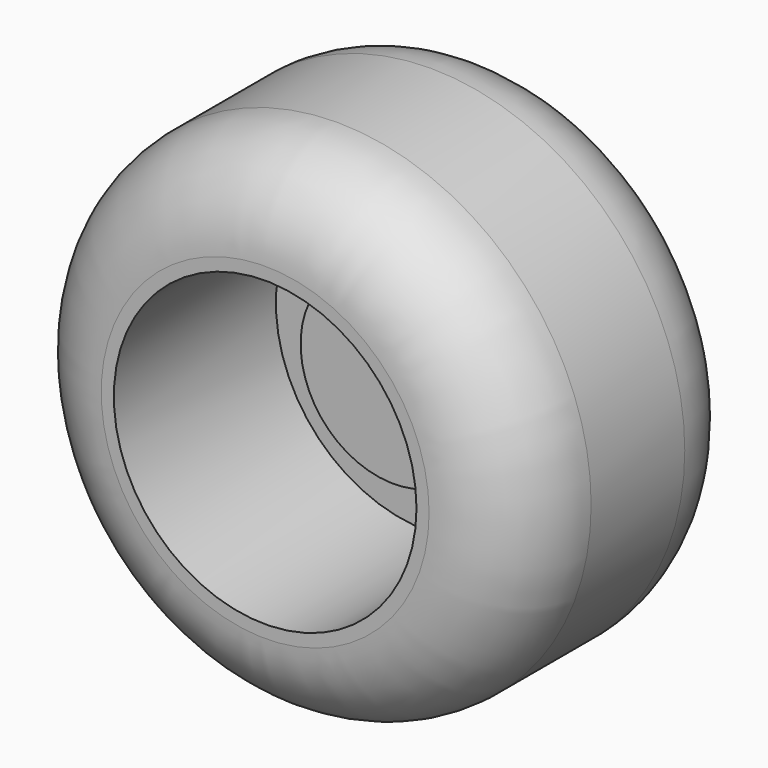
from build123d import *

# Parameters (mm, degrees)
F0_R     = 14.331374
F1_DEPTH = 16.764
F2_R     = 5.08
F3_R     = 5.08
F4_R     = 8.539137
F5_DEPTH = 11.43
F6_R     = 5.252723
F7_DEPTH = 2.3622


with BuildPart() as f1:
    # F0 (on Front) → F1 (new body)
    with BuildSketch(Plane.XZ):
        Circle(F0_R)
    extrude(amount=F1_DEPTH)

    # F2
    f2_edges = [f1.edges().sort_by_distance(p)[0] for p in [
        (-14.331374, -16.764, 0),
    ]]
    fillet(f2_edges, radius=F2_R)

    # F3
    f3_edges = [f1.edges().sort_by_distance(p)[0] for p in [
        (-14.331374, 0, 0),
    ]]
    fillet(f3_edges, radius=F3_R)

    # F4 (on face) → F5 (cut)
    with BuildSketch(Plane.XZ.offset(16.764)):
        Circle(F4_R)
    extrude(amount=-F5_DEPTH, mode=Mode.SUBTRACT)

    # F6 (on face) → F7 (join)
    with BuildSketch(Plane.XZ.offset(5.334)):
        Circle(F6_R)
    extrude(amount=F7_DEPTH)


solid = f1.part
